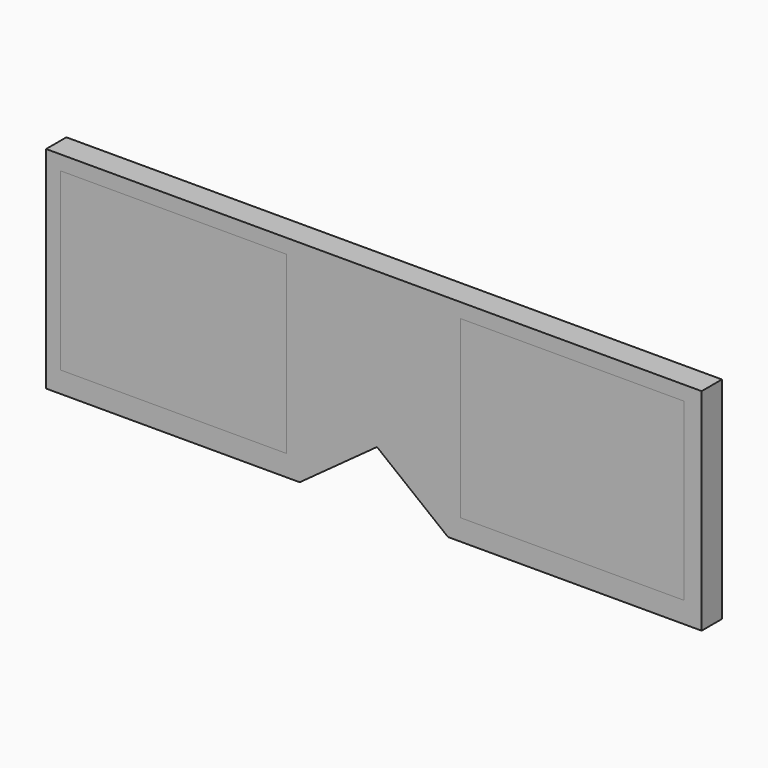
from build123d import *

# Parameters (mm, degrees)
F1_DEPTH = 2.54
F2_W     = 22.642816
F2_H     = 17.558527
F2_W_2   = 22.347219
F3_DEPTH = 2.54


with BuildPart() as f1:
    # F0 (on Front) → F1 (new body)
    with BuildSketch(Plane.XZ):
        Polygon((-29.746524, 21.121391), (-29.746524, 0), (-4.346524, 0), (-4.346524, 3.648652), (-4.346524, 21.121391), align=None)
        Polygon((-4.346524, 3.648652), (-4.346524, 0), (3.39412, 5.626483), (10.504406, 0), (10.504406, 3.575783), (3.39412, 8.166491), align=None)
        Polygon((10.504406, 21.121391), (-4.346524, 21.121391), (-4.346524, 3.648652), (3.39412, 8.166491), (10.504406, 3.575783), align=None)
        Polygon((35.904406, 21.121391), (10.504406, 21.121391), (10.504406, 3.575783), (10.504406, 0), (35.904406, 0), align=None)
    extrude(amount=F1_DEPTH)


with BuildPart() as f3:
    # F2 (on face) → F3 (new body)
    with BuildSketch(Plane.XZ.offset(2.54)):
        with Locations((-16.992171, 10.885852)):
            Rectangle(F2_W, F2_H)
        with Locations((22.943136, 10.885852)):
            Rectangle(F2_W_2, F2_H)
    extrude(amount=-F3_DEPTH)


solid = Compound([f1.part, f3.part])
